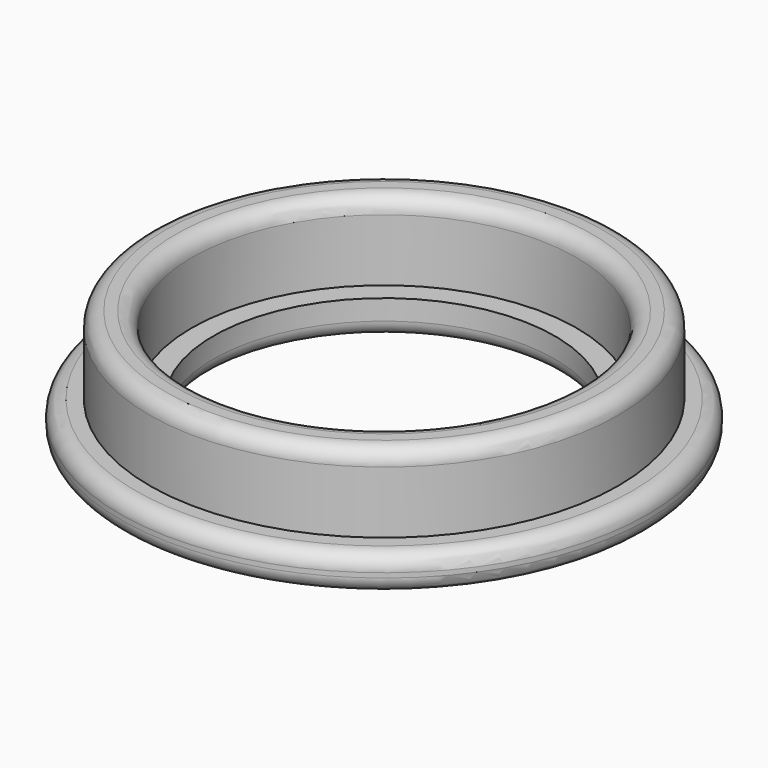
from build123d import *

# Parameters (mm, degrees)
F0_R     = 17
F0_R_2   = 11
F1_DEPTH = 2.3
F2_R     = 15.1
F2_R_2   = 12.4
F3_DEPTH = 5
F4_R     = 1


with BuildPart() as f1:
    # F0 (on Top) → F1 (new body)
    with BuildSketch(Plane.XY):
        Circle(F0_R)
        Circle(F0_R_2, mode=Mode.SUBTRACT)
    extrude(amount=F1_DEPTH)

    # F2 (on face) → F3 (join)
    with BuildSketch(Plane.XY.offset(2.3)):
        Circle(F2_R)
        Circle(F2_R_2, mode=Mode.SUBTRACT)
    extrude(amount=F3_DEPTH)

    # F4
    f4_edges = [f1.edges().sort_by_distance(p)[0] for p in [
        (-17, 0, 0),
        (-11, 0, 0),
        (-15.1, 0, 7.3),
        (-12.4, 0, 7.3),
        (-17, 0, 2.3),
    ]]
    fillet(f4_edges, radius=F4_R)


solid = f1.part
